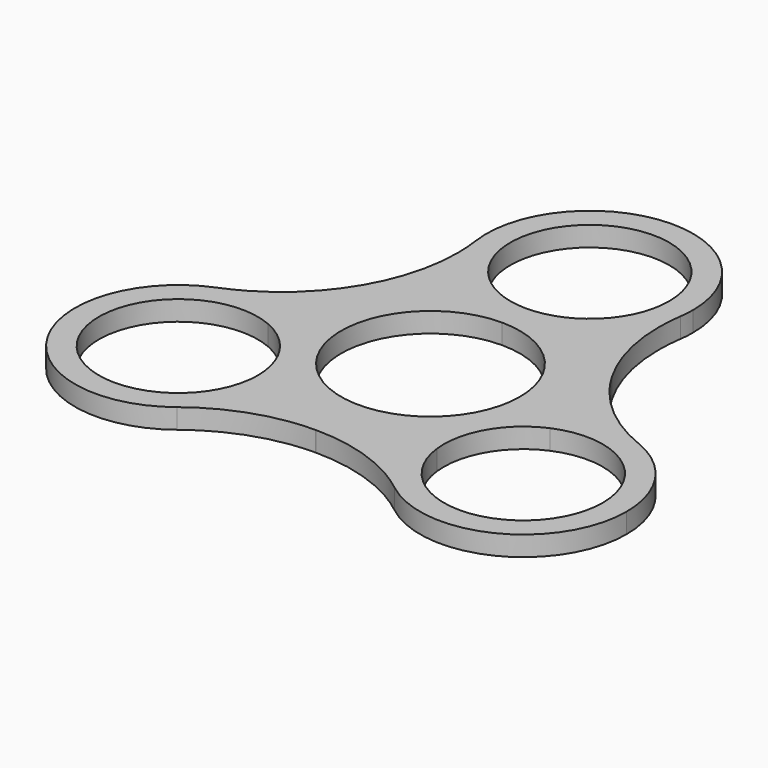
from build123d import *

# Parameters (mm, degrees)
F1_DEPTH = 3.175
F2_R     = 27.94


with BuildPart() as f1:
    # F0 (on Top) → F1 (new body)
    with BuildSketch(Plane.XY):
        with BuildLine():
            ThreePointArc((11.3701248677, 19.83178914), (6.1240473604, 16.4588413278), (0, 15.2781))
            ThreePointArc((0, 15.2781), (-6.1240473604, 16.4588413278), (-11.3701248677, 19.83178914))
            ThreePointArc((-11.3701248677, 19.83178914), (-19.7973407305, 11.43), (-22.8598956316, -0.0690775904))
            ThreePointArc((-22.8598956316, -0.0690775904), (-14.3112015848, -6.0019814071), (-11.0244065702, -15.875))
            ThreePointArc((-11.0244065702, -15.875), (-11.1411614048, -17.8327324208), (-11.4897707639, -19.7627115496))
            ThreePointArc((-11.4897707639, -19.7627115496), (0, -22.86), (11.4897707639, -19.7627115496))
            ThreePointArc((11.4897707639, -19.7627115496), (13.2312227216, -7.63905), (22.8598956316, -0.0690775904))
            ThreePointArc((22.8598956316, -0.0690775904), (22.8599739079, -0.0345388346), (22.86, 0))
            ThreePointArc((22.86, 0), (19.7800487168, 11.4598984621), (11.3701248677, 19.83178914))
        make_face()
        with BuildLine():
            ThreePointArc((14.2494, 0), (-10.0758473678, -10.0758473678), (0, 14.2494))
            ThreePointArc((0, 14.2494), (10.0758473678, 10.0758473678), (14.2494, 0))
        make_face(mode=Mode.SUBTRACT)
        with BuildLine():
            ThreePointArc((-11.3701248677, 19.83178914), (-6.1240473604, 16.4588413278), (0, 15.2781))
            Line((0, 15.2781), (0, 19.0881))
            ThreePointArc((0, 19.0881), (-3.9717674438, 19.7271561192), (-7.5426183918, 21.57981714))
            ThreePointArc((-7.5426183918, 21.57981714), (-9.4966765172, 20.7940552834), (-11.3701248677, 19.83178914))
        make_face()
        with BuildLine():
            Line((0, 19.0881), (0, 15.2781))
            ThreePointArc((0, 15.2781), (6.1240473604, 16.4588413278), (11.3701248677, 19.83178914))
            ThreePointArc((11.3701248677, 19.83178914), (9.4966765172, 20.7940552834), (7.5426183918, 21.57981714))
            ThreePointArc((7.5426183918, 21.57981714), (3.9717674438, 19.7271561192), (0, 19.0881))
        make_face()
        with BuildLine():
            ThreePointArc((16.4719, 31.75), (-6.4821265724, 46.8928374061), (-11.3701248677, 19.83178914))
            ThreePointArc((-11.3701248677, 19.83178914), (-9.4966765172, 20.7940552834), (-7.5426183918, 21.57981714))
            ThreePointArc((-7.5426183918, 21.57981714), (-5.6929707445, 43.0598981301), (12.6619, 31.75))
            ThreePointArc((12.6619, 31.75), (11.3098981301, 26.0570292555), (7.5426183918, 21.57981714))
            ThreePointArc((7.5426183918, 21.57981714), (9.4966765172, 20.7940552834), (11.3701248677, 19.83178914))
            ThreePointArc((11.3701248677, 19.83178914), (15.1428374061, 25.2678734276), (16.4719, 31.75))
        make_face()
        with BuildLine():
            ThreePointArc((-22.4599790482, -4.2578094317), (-22.7565183817, -2.1726645263), (-22.8598956316, -0.0690775904))
            ThreePointArc((-22.8598956316, -0.0690775904), (-41.7613904188, -24.11095), (-11.4897707639, -19.7627115496))
            ThreePointArc((-11.4897707639, -19.7627115496), (-13.2598418645, -18.6213907571), (-14.9173606564, -17.3220077083))
            ThreePointArc((-14.9173606564, -17.3220077083), (-38.4618336303, -22.20595), (-22.4599790482, -4.2578094317))
        make_face()
        with BuildLine():
            ThreePointArc((-11.0244065702, -15.875), (-14.3112015848, -6.0019814071), (-22.8598956316, -0.0690775904))
            ThreePointArc((-22.8598956316, -0.0690775904), (-22.7565183817, -2.1726645263), (-22.4599790482, -4.2578094317))
            ThreePointArc((-22.4599790482, -4.2578094317), (-16.9111002174, -8.9268262774), (-14.8344065702, -15.875))
            ThreePointArc((-14.8344065702, -15.875), (-14.8551621031, -16.5996917773), (-14.9173606564, -17.3220077083))
            ThreePointArc((-14.9173606564, -17.3220077083), (-13.2598418645, -18.6213907571), (-11.4897707639, -19.7627115496))
            ThreePointArc((-11.4897707639, -19.7627115496), (-11.1411614048, -17.8327324208), (-11.0244065702, -15.875))
        make_face()
        with BuildLine():
            ThreePointArc((22.4599790482, -4.2578094317), (22.7565183817, -2.1726645263), (22.8598956316, -0.0690775904))
            ThreePointArc((22.8598956316, -0.0690775904), (13.2312227216, -7.63905), (11.4897707639, -19.7627115496))
            ThreePointArc((11.4897707639, -19.7627115496), (13.2598418645, -18.6213907571), (14.9173606564, -17.3220077083))
            ThreePointArc((14.9173606564, -17.3220077083), (16.53077951, -9.54405), (22.4599790482, -4.2578094317))
        make_face()
        with BuildLine():
            ThreePointArc((43.9682065702, -15.875), (37.369325163, -2.6898950147), (22.8598956316, -0.0690775904))
            ThreePointArc((22.8598956316, -0.0690775904), (22.7565183817, -2.1726645263), (22.4599790482, -4.2578094317))
            ThreePointArc((22.4599790482, -4.2578094317), (34.4444802928, -5.2897936472), (40.1582065702, -15.875))
            ThreePointArc((40.1582065702, -15.875), (28.2209983475, -28.5161444671), (14.9173606564, -17.3220077083))
            ThreePointArc((14.9173606564, -17.3220077083), (13.2598418645, -18.6213907571), (11.4897707639, -19.7627115496))
            ThreePointArc((11.4897707639, -19.7627115496), (29.454038991, -32.2301451653), (43.9682065702, -15.875))
        make_face()
    extrude(amount=F1_DEPTH)

    # F2
    f2_edges = [f1.edges().sort_by_distance(p)[0] for p in [
        (-11.370125, 19.831789, 1.5875),
        (-22.859896, -0.069078, 1.5875),
        (-11.489771, -19.762712, 1.5875),
        (22.859896, -0.069078, 1.5875),
        (11.489771, -19.762712, 1.5875),
        (11.370125, 19.831789, 1.5875),
    ]]
    fillet(f2_edges, radius=F2_R)


solid = f1.part
